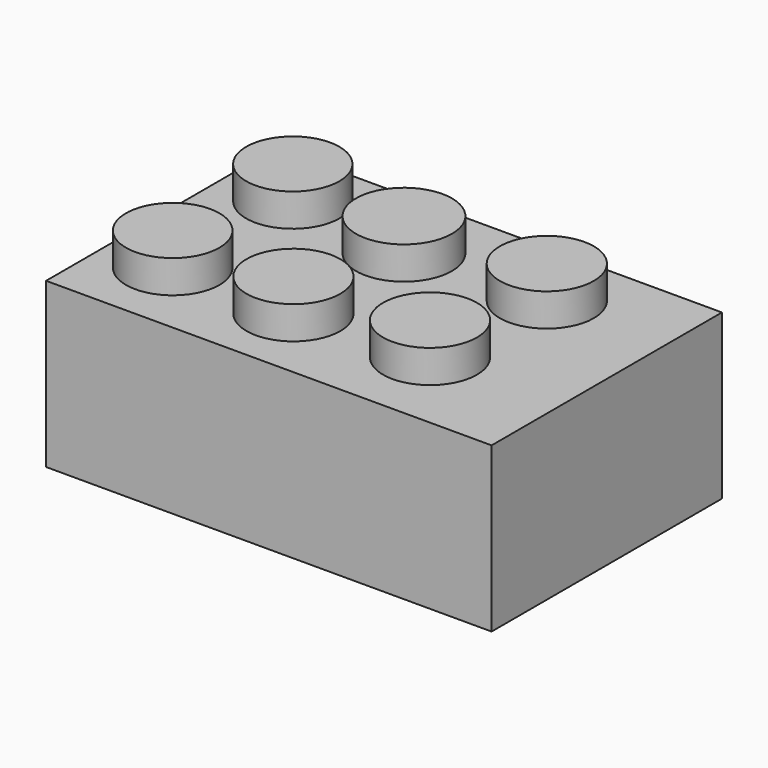
from build123d import *

# Parameters (mm, degrees)
F0_W      = 67.939341
F0_H      = 43.90462
F1_DEPTH  = 25
F4_R      = 7.163185
F5_DEPTH  = 5
F2_R      = 7.125778
F6_DEPTH  = 5
F3_R      = 7.157073
F7_DEPTH  = 5
F8_R      = 7.110337
F11_DEPTH = 5
F9_R      = 7.319436
F10_R     = 7.163193
F12_DEPTH = 5


with BuildPart() as f1:
    # F0 (on Top) → F1 (new body)
    with BuildSketch(Plane.XY):
        with Locations((-31.644568, 19.702698)):
            Rectangle(F0_W, F0_H)
    extrude(amount=F1_DEPTH)

    # F4 (on face) → F5 (join)
    with BuildSketch(Plane.XY.offset(25)):
        with Locations((-17.577875, 10.892338)):
            Circle(F4_R)
    extrude(amount=F5_DEPTH)

    # F2 (on face) → F6 (join)
    with BuildSketch(Plane.XY.offset(25)):
        with Locations((-55.946503, 9.800529)):
            Circle(F2_R)
    extrude(amount=F6_DEPTH)

    # F3 (on face) → F7 (join)
    with BuildSketch(Plane.XY.offset(25)):
        with Locations((-37.314776, 9.52596)):
            Circle(F3_R)
    extrude(amount=F7_DEPTH)

    # F8 (on face) → F11 (join)
    with BuildSketch(Plane.XY.offset(25)):
        with Locations((-55.493828, 32.125078)):
            Circle(F8_R)
    extrude(amount=F11_DEPTH)

    # F9 (on face) + F10 (on face) → F12 (join)
    with BuildSketch(Plane.XY.offset(25)):
        with Locations((-36.76331, 29.901806)):
            Circle(F9_R)
    with BuildSketch(Plane.XY.offset(25)):
        with Locations((-15.822439, 30.960426)):
            Circle(F10_R)
    extrude(amount=F12_DEPTH)


solid = f1.part
